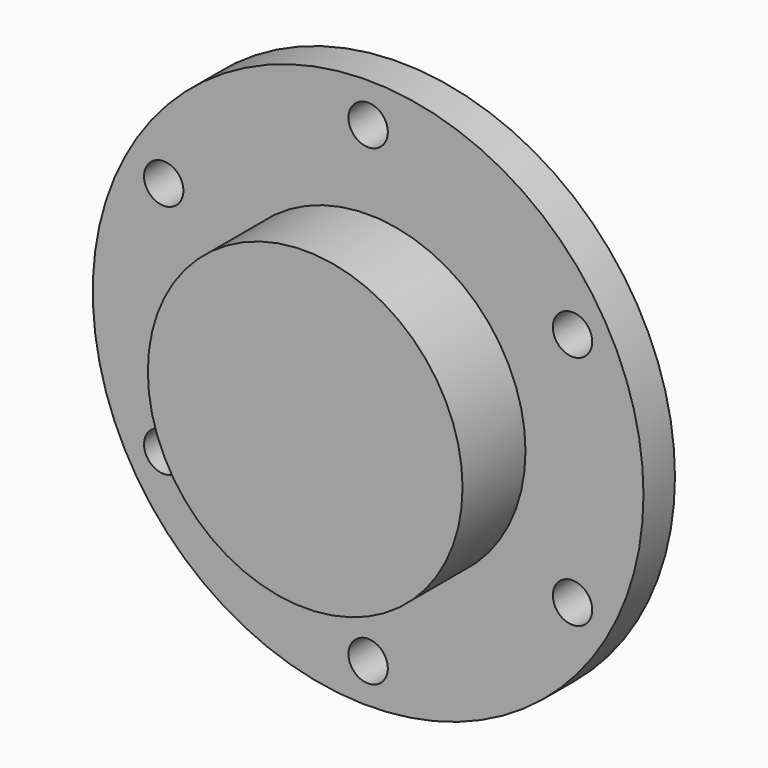
from build123d import *

# Parameters (mm, degrees)
F0_R     = 44.45
F1_DEPTH = 6.35
F2_R     = 25.4
F3_DEPTH = 12.7
F5_R     = 28.575
F5_R_2   = 25.4
F6_DEPTH = 3.175
F7_R     = 3.175
F8_DEPTH = 25.4


with BuildPart() as f1:
    # F0 (on Front) → F1 (new body)
    with BuildSketch(Plane.XZ):
        Circle(F0_R)
    extrude(amount=F1_DEPTH)

    # F2 (on face) → F3 (join)
    with BuildSketch(Plane.XZ.offset(6.35)):
        Circle(F2_R)
    extrude(amount=F3_DEPTH)

    # F5 (on offset) → F6 (cut)
    with BuildSketch(Plane.XZ.offset(12.7)):
        Circle(F5_R)
        Circle(F5_R_2, mode=Mode.SUBTRACT)
    extrude(amount=F6_DEPTH, mode=Mode.SUBTRACT)

    # F7 (on face) → F8 (cut)
    with BuildSketch(Plane(origin=(0, 0, 0), x_dir=(-1, 0, 0), z_dir=(0, 1, 0))):
        with Locations((-32.995568, 19.05)):
            Circle(F7_R)
        with Locations((-32.995568, -19.05)):
            Circle(F7_R)
        with Locations((0, -38.1)):
            Circle(F7_R)
        with Locations((32.995568, -19.05)):
            Circle(F7_R)
        with Locations((32.995568, 19.05)):
            Circle(F7_R)
        with Locations((0, 38.1)):
            Circle(F7_R)
    extrude(amount=-F8_DEPTH, mode=Mode.SUBTRACT)


solid = f1.part
